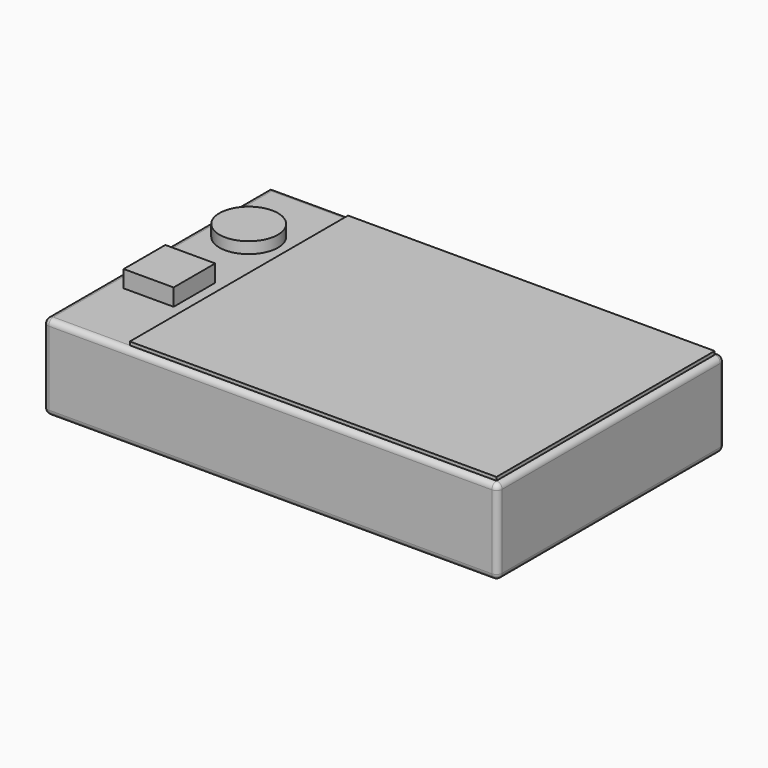
from build123d import *

# Parameters (mm, degrees)
F0_W     = 203.2
F0_H     = 127
F1_DEPTH = 38.1
F2_R     = 2.54
F3_R     = 13.086022
F4_DEPTH = 5.08
F5_W     = 22.316434
F5_H     = 23.267692
F6_DEPTH = 7.62
F7_W     = 163.913434
F7_H     = 121.92
F8_DEPTH = 1.524


with BuildPart() as f1:
    # F0 (on Top) → F1 (new body)
    with BuildSketch(Plane.XY):
        with Locations((-6.043922, 12.433724)):
            Rectangle(F0_W, F0_H)
    extrude(amount=F1_DEPTH)

    # F2
    f2_edges = [f1.edges().sort_by_distance(p)[0] for p in [
        (-6.043922, -51.066276, 0),
        (-6.043922, -51.066276, 38.1),
        (-107.643922, -51.066276, 19.05),
        (95.556078, -51.066276, 19.05),
        (95.556078, 12.433724, 38.1),
        (95.556078, 12.433724, 0),
        (95.556078, 75.933724, 19.05),
        (-6.043922, 75.933724, 38.1),
        (-107.643922, 12.433724, 38.1),
        (-6.043922, 75.933724, 0),
        (-107.643922, 12.433724, 0),
    ]]
    fillet(f2_edges, radius=F2_R)

    # F3 (on face) → F4 (join)
    with BuildSketch(Plane.XY.offset(38.1)):
        with Locations((-89.747429, 41.45414)):
            Circle(F3_R)
    extrude(amount=F4_DEPTH)

    # F5 (on face) → F6 (join)
    with BuildSketch(Plane.XY.offset(38.1)):
        with Locations((-88.330593, -4.60028)):
            Rectangle(F5_W, F5_H)
    extrude(amount=F6_DEPTH)

    # F7 (on face) → F8 (join)
    with BuildSketch(Plane.XY.offset(38.1)):
        with Locations((11.059361, 12.433724)):
            Rectangle(F7_W, F7_H)
    extrude(amount=F8_DEPTH)


solid = f1.part
